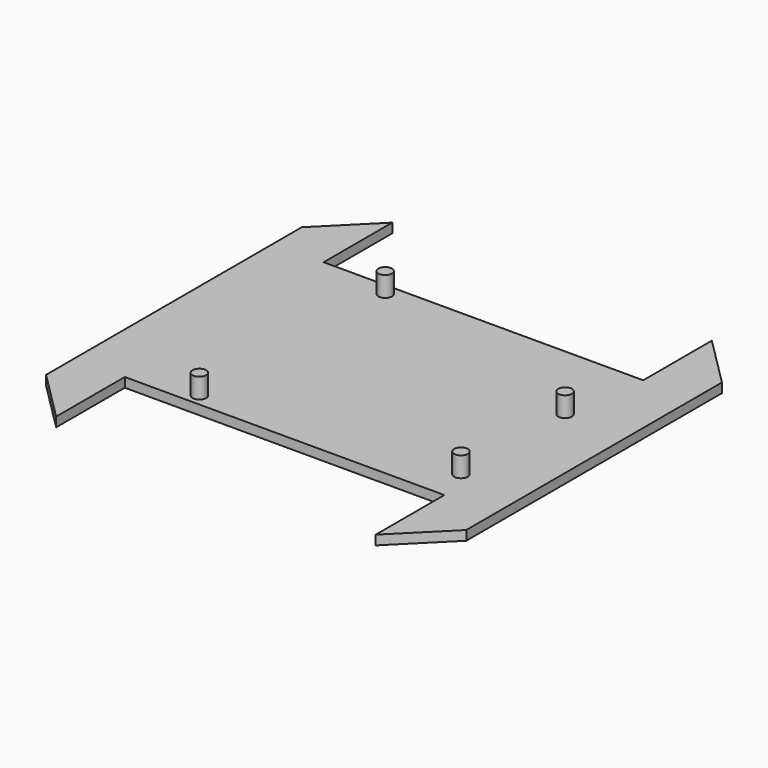
from build123d import *

# Parameters (mm, degrees)
F0_W     = 90.17
F0_H     = 91.44
F1_DEPTH = 2.032
F2_SIZE  = 11.43
F3_W     = 68.58
F3_H     = 20.32
F4_DEPTH = 25.4
F5_R     = 1.4605
F6_DEPTH = 6.35


with BuildPart() as f1:
    # F0 (on Top) → F1 (new body)
    with BuildSketch(Plane.XY):
        with Locations((-6.089645, 9.464618)):
            Rectangle(F0_W, F0_H)
    extrude(amount=F1_DEPTH)

    # F2
    f2_edges = [f1.edges().sort_by_distance(p)[0] for p in [
        (-51.174645, 55.184618, 1.016),
        (-51.174645, -36.255382, 1.016),
        (38.995355, 55.184618, 1.016),
        (38.995355, -36.255382, 1.016),
    ]]
    chamfer(f2_edges, length=F2_SIZE)

    # F3 (on Top) → F4 (cut)
    with BuildSketch(Plane.XY):
        with Locations((-6.089645, -27.365382)):
            Rectangle(F3_W, F3_H)
        with Locations((-6.089645, 46.294618)):
            Rectangle(F3_W, F3_H)
    extrude(amount=F4_DEPTH, mode=Mode.SUBTRACT)

    # F5 (on Top) → F6 (join)
    with BuildSketch(Plane.XY):
        with Locations((-26.409645, -14.665382)):
            Circle(F5_R)
        with Locations((25.660355, -9.585382)):
            Circle(F5_R)
        with Locations((25.660355, 18.354618)):
            Circle(F5_R)
        with Locations((-25.139645, 33.594618)):
            Circle(F5_R)
    extrude(amount=F6_DEPTH)


solid = f1.part
